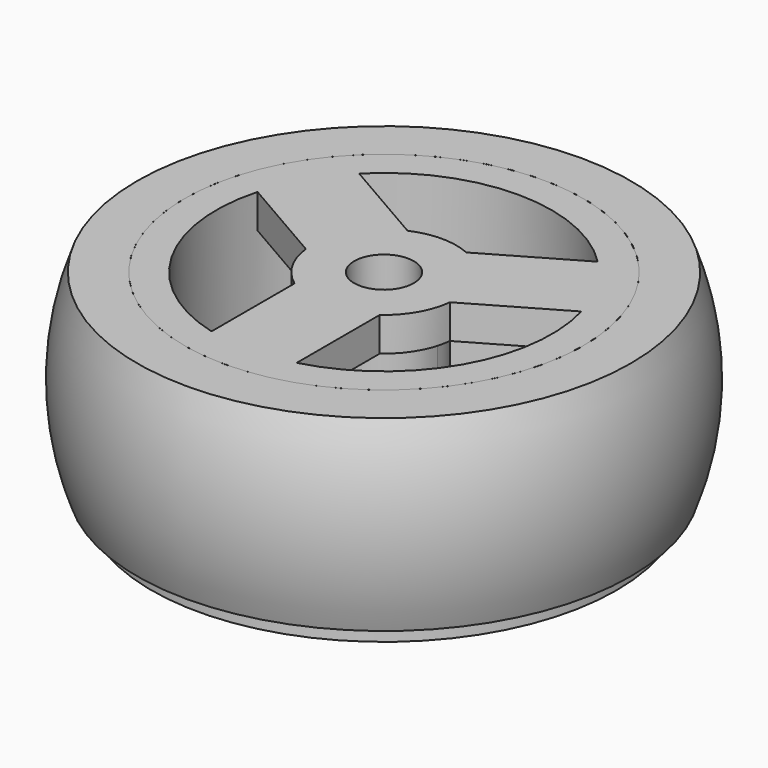
from build123d import *

# Parameters (mm, degrees)
F0_R      = 11.7
F1_DEPTH  = 12
F2_R      = 13.65
F2_R_2    = 11.7
F3_DEPTH  = 1
F4_R      = 9.85
F5_DEPTH  = 12
F7_DEPTH  = 12
F9_DEPTH  = 2
F11_DEPTH = 10
F13_DEPTH = 7
F14_R     = 1.75
F15_DEPTH = 3


with BuildPart() as f1:
    # F0 (on Top) → F1 (new body)
    with BuildSketch(Plane.XY):
        Circle(F0_R)
    extrude(amount=F1_DEPTH)

    # F2 (on face) → F3 (join)
    with BuildSketch(Plane(origin=(0, 0, 0), x_dir=(1, 0, 0), z_dir=(0, 0, -1))):
        Circle(F2_R)
        Circle(F2_R_2, mode=Mode.SUBTRACT)
    extrude(amount=-F3_DEPTH)

    # F4 (on face) → F5 (cut, through all)
    with BuildSketch(Plane.XY.offset(12)):
        Circle(F4_R)
    extrude(amount=-F5_DEPTH, mode=Mode.SUBTRACT)

    # F6 (on face) → F7 (join, through all)
    with BuildSketch(Plane(origin=(0, 0, 0), x_dir=(1, 0, 0), z_dir=(0, 0, -1))):
        Polygon((0.4, -0.2309401077), (0, 0.4618802154), (-0.4, -0.2309401077), align=None)
        with BuildLine():
            Line((0.4, 0.2309401077), (0.4, 9.8418748214))
            ThreePointArc((0.4, 9.8418748214), (0, 9.85), (-0.4, 9.8418748214))
            Line((-0.4, 9.8418748214), (-0.4, 0.2309401077))
            Line((-0.4, 0.2309401077), (0, 0.4618802154))
            Line((0, 0.4618802154), (0.4, 0.2309401077))
        make_face()
        with BuildLine():
            Line((-0.4, 0.2309401077), (-8.7233136162, -4.5745272492))
            ThreePointArc((-8.7233136162, -4.5745272492), (-8.5303502273, -4.925), (-8.3233136162, -5.2673475722))
            Line((-8.3233136162, -5.2673475722), (0, -0.4618802154))
            Line((0, -0.4618802154), (-0.4, -0.2309401077))
            Line((-0.4, -0.2309401077), (-0.4, 0.2309401077))
        make_face()
        with BuildLine():
            ThreePointArc((8.3233136162, -5.2673475722), (8.5303502273, -4.925), (8.7233136162, -4.5745272492))
            Line((8.7233136162, -4.5745272492), (0.4, 0.2309401077))
            Line((0.4, 0.2309401077), (0.4, -0.2309401077))
            Line((0.4, -0.2309401077), (0, -0.4618802154))
            Line((0, -0.4618802154), (8.3233136162, -5.2673475722))
        make_face()
        Polygon((0, -0.4618802154), (0.4, -0.2309401077), (-0.4, -0.2309401077), align=None)
        Polygon((0, 0.4618802154), (-0.4, 0.2309401077), (-0.4, -0.2309401077), align=None)
        Polygon((0.4, -0.2309401077), (0.4, 0.2309401077), (0, 0.4618802154), align=None)
    extrude(amount=-F7_DEPTH)

    # F8 (on face) → F9 (join)
    with BuildSketch(Plane.XY.offset(12)):
        with BuildLine():
            Line((-9.5010226639, 2.5986666466), (-4.2264702249, -0.4465976239))
            ThreePointArc((-4.2264702249, -0.4465976239), (-3.6806079661, -2.125), (-2.5, -3.4369317712))
            Line((-2.5, -3.4369317712), (-2.5, -9.5274603122))
            ThreePointArc((-2.5, -9.5274603122), (-1.4584972132, -9.7414211427), (-0.4, -9.8418748214))
            Line((-0.4, -9.8418748214), (-0.4, -0.2309401077))
            Line((-0.4, -0.2309401077), (-8.7233136162, 4.5745272492))
            ThreePointArc((-8.7233136162, 4.5745272492), (-9.1655667851, 3.6076149334), (-9.5010226639, 2.5986666466))
        make_face()
        with BuildLine():
            Line((-1.7264702249, 3.8835293951), (-7.0010226639, 6.9287936655))
            ThreePointArc((-7.0010226639, 6.9287936655), (-7.7070695719, 6.1338062093), (-8.3233136162, 5.2673475722))
            Line((-8.3233136162, 5.2673475722), (0, 0.4618802154))
            Line((0, 0.4618802154), (8.3233136162, 5.2673475722))
            ThreePointArc((8.3233136162, 5.2673475722), (7.7070695719, 6.1338062093), (7.0010226639, 6.9287936655))
            Line((7.0010226639, 6.9287936655), (1.7264702249, 3.8835293951))
            ThreePointArc((1.7264702249, 3.8835293951), (0, 4.25), (-1.7264702249, 3.8835293951))
        make_face()
        with BuildLine():
            ThreePointArc((0.4, -9.8418748214), (1.4584972132, -9.7414211427), (2.5, -9.5274603122))
            Line((2.5, -9.5274603122), (2.5, -3.4369317712))
            ThreePointArc((2.5, -3.4369317712), (3.6806079661, -2.125), (4.2264702249, -0.4465976239))
            Line((4.2264702249, -0.4465976239), (9.5010226639, 2.5986666466))
            ThreePointArc((9.5010226639, 2.5986666466), (9.1655667851, 3.6076149334), (8.7233136162, 4.5745272492))
            Line((8.7233136162, 4.5745272492), (0.4, -0.2309401077))
            Line((0.4, -0.2309401077), (0.4, -9.8418748214))
        make_face()
        with BuildLine():
            Line((-11.1484847325, 3.5498293154), (-9.5010226639, 2.5986666466))
            ThreePointArc((-9.5010226639, 2.5986666466), (-9.1655667851, 3.6076149334), (-8.7233136162, 4.5745272492))
            Line((-8.7233136162, 4.5745272492), (-0.4, -0.2309401077))
            Line((-0.4, -0.2309401077), (-0.4, -9.8418748214))
            ThreePointArc((-0.4, -9.8418748214), (-1.4584972132, -9.7414211427), (-2.5, -9.5274603122))
            Line((-2.5, -9.5274603122), (-2.5, -11.4297856498))
            Line((-2.5, -11.4297856498), (2.5, -11.4297856498))
            Line((2.5, -11.4297856498), (2.5, -9.5274603122))
            ThreePointArc((2.5, -9.5274603122), (1.4584972132, -9.7414211427), (0.4, -9.8418748214))
            Line((0.4, -9.8418748214), (0.4, -0.2309401077))
            Line((0.4, -0.2309401077), (8.7233136162, 4.5745272492))
            ThreePointArc((8.7233136162, 4.5745272492), (9.1655667851, 3.6076149334), (9.5010226639, 2.5986666466))
            Line((9.5010226639, 2.5986666466), (11.1484847325, 3.5498293154))
            Line((11.1484847325, 3.5498293154), (8.6484847325, 7.8799563344))
            Line((8.6484847325, 7.8799563344), (7.0010226639, 6.9287936655))
            ThreePointArc((7.0010226639, 6.9287936655), (7.7070695719, 6.1338062093), (8.3233136162, 5.2673475722))
            Line((8.3233136162, 5.2673475722), (0, 0.4618802154))
            Line((0, 0.4618802154), (-8.3233136162, 5.2673475722))
            ThreePointArc((-8.3233136162, 5.2673475722), (-7.7070695719, 6.1338062093), (-7.0010226639, 6.9287936655))
            Line((-7.0010226639, 6.9287936655), (-8.6484847325, 7.8799563344))
            Line((-8.6484847325, 7.8799563344), (-11.1484847325, 3.5498293154))
        make_face()
    extrude(amount=-F9_DEPTH)

    # F10 (on face) → F11 (join, through all)
    with BuildSketch(Plane(origin=(0, 0, 0), x_dir=(1, 0, 0), z_dir=(0, 0, -1))):
        with BuildLine():
            Line((-0.4, 0.2309401077), (-0.4, 3.12449996))
            ThreePointArc((-0.4, 3.12449996), (-2.7279800219, 1.575), (-2.9058963395, -1.2158398185))
            Line((-2.9058963395, -1.2158398185), (-0.4, 0.2309401077))
        make_face()
        with BuildLine():
            Line((0.4, 0.2309401077), (0.4, 3.12449996))
            ThreePointArc((0.4, 3.12449996), (0, 3.15), (-0.4, 3.12449996))
            Line((-0.4, 3.12449996), (-0.4, 0.2309401077))
            Line((-0.4, 0.2309401077), (-2.9058963395, -1.2158398185))
            ThreePointArc((-2.9058963395, -1.2158398185), (-2.7279800219, -1.575), (-2.5058963395, -1.9086601415))
            Line((-2.5058963395, -1.9086601415), (0, -0.4618802154))
            Line((0, -0.4618802154), (2.5058963395, -1.9086601415))
            ThreePointArc((2.5058963395, -1.9086601415), (2.7279800219, -1.575), (2.9058963395, -1.2158398185))
            Line((2.9058963395, -1.2158398185), (0.4, 0.2309401077))
        make_face()
        with BuildLine():
            ThreePointArc((-2.5058963395, -1.9086601415), (0, -3.15), (2.5058963395, -1.9086601415))
            Line((2.5058963395, -1.9086601415), (0, -0.4618802154))
            Line((0, -0.4618802154), (-2.5058963395, -1.9086601415))
        make_face()
        with BuildLine():
            ThreePointArc((2.9058963395, -1.2158398185), (3.0883712106, -0.6200510183), (3.15, 0))
            ThreePointArc((3.15, 0), (2.3645824156, 2.0811655388), (0.4, 3.12449996))
            Line((0.4, 3.12449996), (0.4, 0.2309401077))
            Line((0.4, 0.2309401077), (2.9058963395, -1.2158398185))
        make_face()
    extrude(amount=-F11_DEPTH)

    # F12 (on face) → F13 (cut)
    with BuildSketch(Plane(origin=(0, 0, 0), x_dir=(1, 0, 0), z_dir=(0, 0, -1))):
        Polygon((1.5, -0.8660254038), (1.5, 0.8660254038), (0, 1.7320508076), (-1.5, 0.8660254038), (-1.5, -0.8660254038), (0, -1.7320508076), align=None)
    extrude(amount=-F13_DEPTH, mode=Mode.SUBTRACT)

    # F14 (on face) → F15 (cut)
    with BuildSketch(Plane.XY.offset(12)):
        Circle(F14_R)
    extrude(amount=-F15_DEPTH, mode=Mode.SUBTRACT)


with BuildPart() as f17:
    # F16 (on Right) → F17 (revolve)
    with BuildSketch(Plane.YZ):
        with BuildLine():
            Line((-14.4913767462, 1), (-11.7, 1))
            Line((-11.7, 1), (-11.7, 12))
            Line((-11.7, 12), (-14.4913767462, 12))
            ThreePointArc((-14.4913767462, 12), (-15.5, 6.5), (-14.4913767462, 1))
        make_face()
    revolve(axis=Axis((0, 0, 9.3064010143), (0, 0, 1)))


solid = Compound([f1.part, f17.part])
